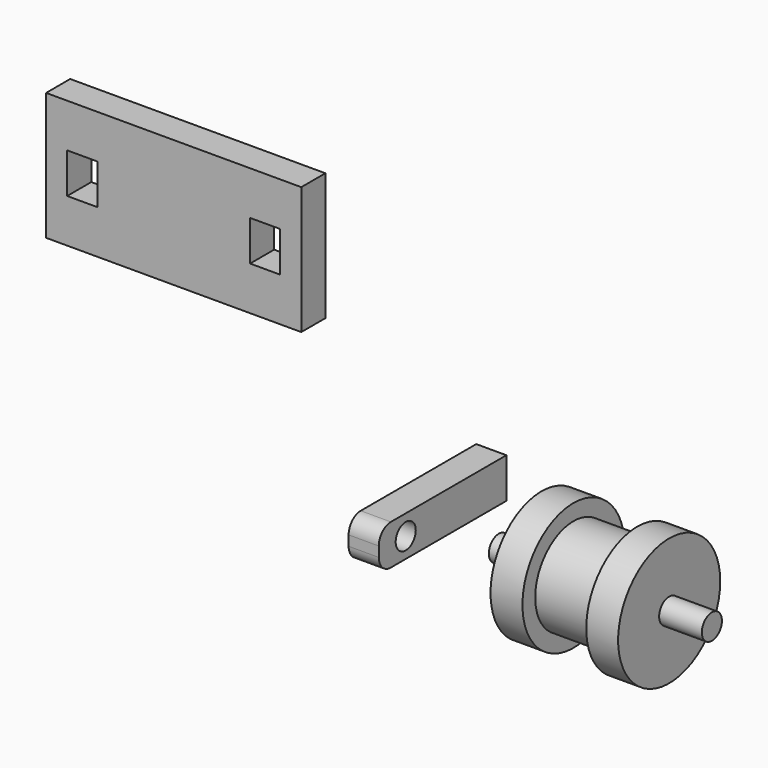
from build123d import *

# Parameters (mm, degrees)
F0_R     = 2.5
F1_DEPTH = 21.2
F0_R_2   = 12.7
F0_R_3   = 9.525
F2_DEPTH = 12.7
F3_DEPTH = 6.35
F4_R     = 2.5
F5_DEPTH = 6
F6_W     = 50.8
F6_H     = 25.4
F6_W_2   = 6
F6_H_2   = 8
F7_DEPTH = 6


with BuildPart() as f1:
    # F0 (on Right) → F1 (new body, symmetric)
    with BuildSketch(Plane.YZ):
        Circle(F0_R)
    extrude(amount=F1_DEPTH, both=True)

    # F0 (on Right) → F2 (join, symmetric)
    with BuildSketch(Plane.YZ):
        Circle(F0_R_2)
        Circle(F0_R_3, mode=Mode.SUBTRACT)
        Circle(F0_R_3)
        Circle(F0_R, mode=Mode.SUBTRACT)
    extrude(amount=F2_DEPTH, both=True)

    # F0 (on Right) → F3 (cut, symmetric)
    with BuildSketch(Plane.YZ):
        Circle(F0_R_2)
        Circle(F0_R_3, mode=Mode.SUBTRACT)
    extrude(amount=F3_DEPTH, both=True, mode=Mode.SUBTRACT)


with BuildPart() as f5:
    # F4 (on Right) → F5 (new body)
    with BuildSketch(Plane.YZ):
        with BuildLine():
            Line((-60.880328, 30.147629), (-32.130328, 30.147629))
            Line((-32.130328, 30.147629), (-32.130328, 38.147629))
            Line((-32.130328, 38.147629), (-60.880328, 38.147629))
            ThreePointArc((-60.880328, 38.147629), (-63.001648, 37.26895), (-63.880328, 35.147629))
            Line((-63.880328, 35.147629), (-63.880328, 33.147629))
            ThreePointArc((-63.880328, 33.147629), (-63.001648, 31.026309), (-60.880328, 30.147629))
        make_face()
        with Locations((-57.180328, 34.147629)):
            Circle(F4_R, mode=Mode.SUBTRACT)
    extrude(amount=F5_DEPTH)


with BuildPart() as f7:
    # F6 (on Front) → F7 (new body)
    with BuildSketch(Plane.XZ):
        with Locations((-81.135715, 41.724754)):
            Rectangle(F6_W, F6_H)
        with Locations((-99.335715, 41.724754)):
            Rectangle(F6_W_2, F6_H_2, mode=Mode.SUBTRACT)
        with Locations((-62.926715, 41.724754)):
            Rectangle(F6_W_2, F6_H_2, mode=Mode.SUBTRACT)
    extrude(amount=F7_DEPTH)


solid = Compound([f1.part, f5.part, f7.part])
